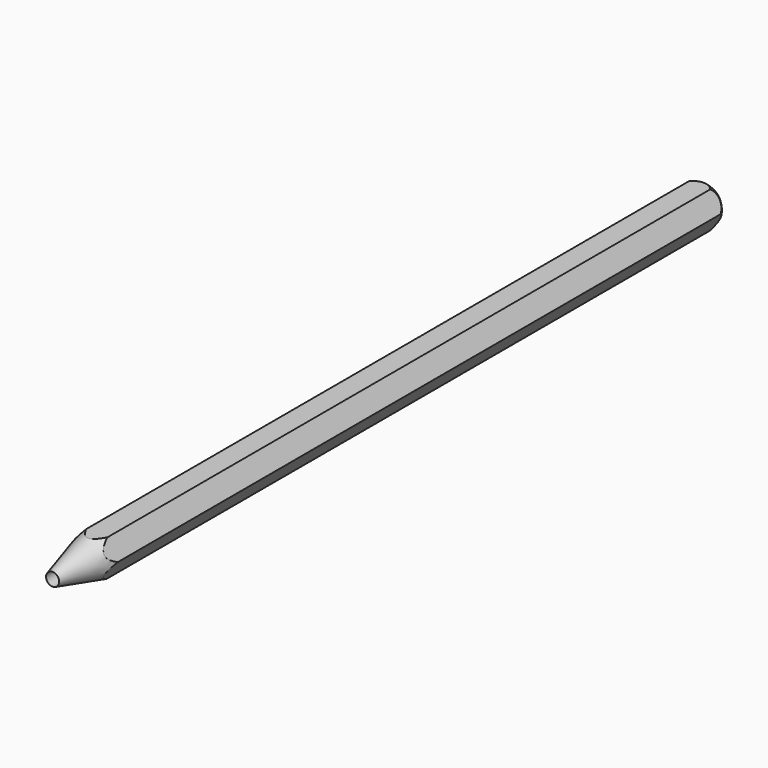
from build123d import *

# Parameters (mm, degrees)
F1_DEPTH = 120
F2_R     = 0.925
F3_DEPTH = 110


with BuildPart() as f1:
    # F0 (on Front) → F1 (new body)
    with BuildSketch(Plane.XZ):
        Polygon((1.544484, 2.572393), (-1.455516, 2.623759), (-3, 0.051366), (-1.544484, -2.572393), (1.455516, -2.623759), (3, -0.051366), align=None)
    extrude(amount=-F1_DEPTH)

    # F2 (on face) → F3 (cut)
    with BuildSketch(Plane.XZ):
        Circle(F2_R)
    extrude(amount=-F3_DEPTH, mode=Mode.SUBTRACT)

    # F4 (on Right) → F5 (revolve, cut)
    with BuildSketch(Plane.YZ):
        with BuildLine():
            ThreePointArc((12.074073, 3.235238), (-1.631577, 12.393061), (-12.5, 0))
            Line((-12.5, 0), (0, 0))
            Line((0, 0), (12.074073, 3.235238))
        make_face()
    revolve(axis=Axis((0, 27.808351, 0), (0, 1, 0)), mode=Mode.SUBTRACT)

    # F8 (on Right) → F9 (revolve, cut)
    with BuildSketch(Plane.YZ):
        with BuildLine():
            ThreePointArc((116.752788, 3.2), (119.01553, 2.262742), (119.952788, 0))
            Line((119.952788, 0), (139.09302, 0))
            Line((139.09302, 0), (138.862567, 3.2))
            Line((138.862567, 3.2), (116.752788, 3.2))
        make_face()
    revolve(axis=Axis((0, 85.42857, 0), (0, 1, 0)), mode=Mode.SUBTRACT)


with BuildPart() as f6_1:
    # F6: copy of F1
    add(f1.part.moved(Location((0, 0, 81.07525))))


solid = f1.part
